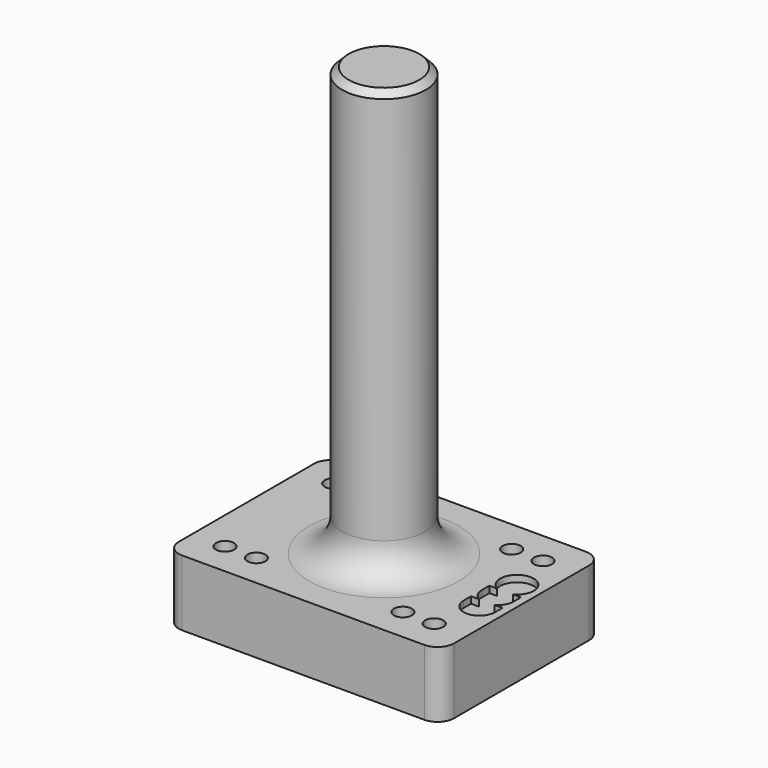
from build123d import *

# Parameters (mm, degrees)
F0_W     = 83.5
F0_H     = 61.275
F0_R     = 2.75
F1_DEPTH = 20
F2_R     = 5
F3_R     = 12.7
F4_DEPTH = 150
F5_SIZE  = 2
F6_R     = 10
F8_DEPTH = 2


with BuildPart() as f1:
    # F0 (on Top) → F1 (new body)
    with BuildSketch(Plane.XY):
        Rectangle(F0_W, F0_H)
        with Locations((-31.75, -20.6375)):
            Circle(F0_R, mode=Mode.SUBTRACT)
        with Locations((-22.225, -20.6375)):
            Circle(F0_R, mode=Mode.SUBTRACT)
        with Locations((22.225, -20.6375)):
            Circle(F0_R, mode=Mode.SUBTRACT)
        with Locations((31.75, -20.6375)):
            Circle(F0_R, mode=Mode.SUBTRACT)
        with Locations((-31.75, 20.6375)):
            Circle(F0_R, mode=Mode.SUBTRACT)
        with Locations((-22.225, 20.6375)):
            Circle(F0_R, mode=Mode.SUBTRACT)
        with Locations((22.225, 20.6375)):
            Circle(F0_R, mode=Mode.SUBTRACT)
        with Locations((31.75, 20.6375)):
            Circle(F0_R, mode=Mode.SUBTRACT)
    extrude(amount=F1_DEPTH)

    # F2
    f2_edges = [f1.edges().sort_by_distance(p)[0] for p in [
        (-41.75, -30.6375, 10),
        (41.75, -30.6375, 10),
        (-41.75, 30.6375, 10),
        (41.75, 30.6375, 10),
    ]]
    fillet(f2_edges, radius=F2_R)

    # F3 (on Top) → F4 (join)
    with BuildSketch(Plane.XY):
        Circle(F3_R)
    extrude(amount=F4_DEPTH)

    # F5
    f5_edges = [f1.edges().sort_by_distance(p)[0] for p in [
        (-12.7, 0, 150),
    ]]
    chamfer(f5_edges, length=F5_SIZE)

    # F6
    f6_edges = [f1.edges().sort_by_distance(p)[0] for p in [
        (-12.7, 0, 20),
    ]]
    fillet(f6_edges, radius=F6_R)

    # F7 (on face) → F8 (cut)
    with BuildSketch(Plane.XY.offset(20)):
        with BuildLine():
            Line((29.793699, 2.727646), (29.793699, -0.068939))
            ThreePointArc((29.793699, -0.068939), (30.439165, -2.469058), (32.201427, -4.221665))
            Line((32.201427, -4.221665), (29.7937, -4.221665))
            Line((29.7937, -4.221665), (29.7937, -7.018251))
            ThreePointArc((29.7937, -7.018251), (34.578768, -11.803318), (39.363836, -7.018251))
            Line((39.363836, -7.018251), (39.363836, -4.221665))
            Line((39.363836, -4.221665), (36.956107, -4.221665))
            ThreePointArc((36.956107, -4.221665), (38.718369, -2.469058), (39.363835, -0.068939))
            Line((39.363835, -0.068939), (39.363835, 2.727646))
            Line((39.363835, 2.727646), (36.985549, 2.727646))
            ThreePointArc((36.985549, 2.727646), (34.578767, 12.275941), (32.171985, 2.727646))
            Line((32.171985, 2.727646), (29.793699, 2.727646))
        make_face()
    extrude(amount=-F8_DEPTH, mode=Mode.SUBTRACT)


solid = f1.part
